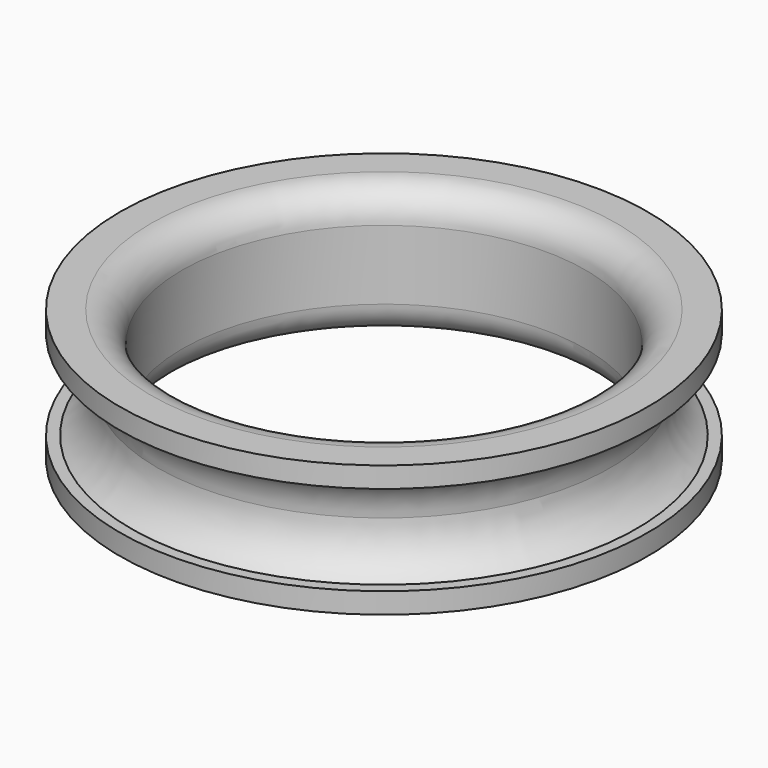
from build123d import *


with BuildPart() as f1:
    # F0 (on Front) → F1 (revolve)
    with BuildSketch(Plane.XZ):
        with BuildLine():
            Line((-9.75, -1.675), (-9.75, 1.675))
            ThreePointArc((-9.75, 1.675), (-10.18934, 2.73566), (-11.25, 3.175))
            Line((-11.25, 3.175), (-12.75, 3.175))
            Line((-12.75, 3.175), (-12.75, 2.175))
            Line((-12.75, 2.175), (-12.217371, 2.175))
            ThreePointArc((-12.217371, 2.175), (-11.289957, 1.258655), (-10.95, 0))
            ThreePointArc((-10.95, 0), (-11.289957, -1.258655), (-12.217371, -2.175))
            Line((-12.217371, -2.175), (-12.75, -2.175))
            Line((-12.75, -2.175), (-12.75, -3.175))
            Line((-12.75, -3.175), (-11.25, -3.175))
            ThreePointArc((-11.25, -3.175), (-10.18934, -2.73566), (-9.75, -1.675))
        make_face()
    revolve(axis=Axis((0, 0, 0.475), (0, 0, -1)))


solid = f1.part
